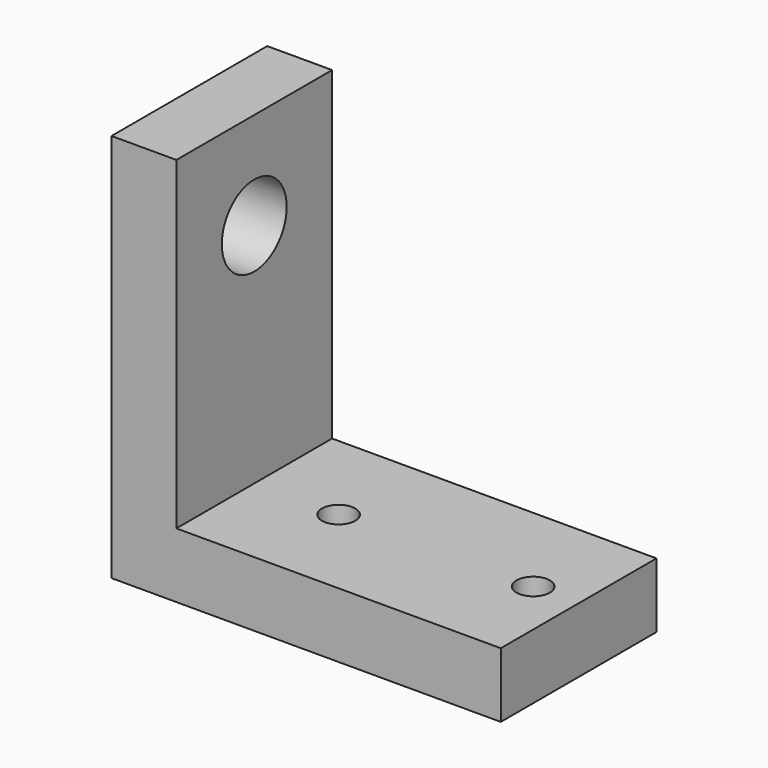
from build123d import *

# Parameters (mm, degrees)
F0_W     = 76.2
F0_H     = 38.1
F1_DEPTH = 12.7
F2_W     = 12.7
F2_H     = 38.1
F3_DEPTH = 63.5
F5_D     = 15.875
F7_D     = 6.5278


with BuildPart() as f1:
    # F0 (on Top) → F1 (new body)
    with BuildSketch(Plane.XY):
        with Locations((38.1, 19.05)):
            Rectangle(F0_W, F0_H)
    extrude(amount=F1_DEPTH)

    # F2 (on face) → F3 (join)
    with BuildSketch(Plane.XY.offset(12.7)):
        with Locations((6.35, 19.05)):
            Rectangle(F2_W, F2_H)
    extrude(amount=F3_DEPTH)

    # F5 (through all)
    with Locations(Plane(origin=(0, 0, 0), x_dir=(0, -1, 0), z_dir=(-1, 0, 0))):
        with Locations((-19.05, 57.15)):
            Hole(F5_D / 2)

    # F7 (through all)
    with Locations(Plane(origin=(0, 0, 0), x_dir=(1, 0, 0), z_dir=(0, 0, -1))):
        with Locations((67.31, -19.05), (29.21, -19.05)):
            Hole(F7_D / 2)


solid = f1.part
